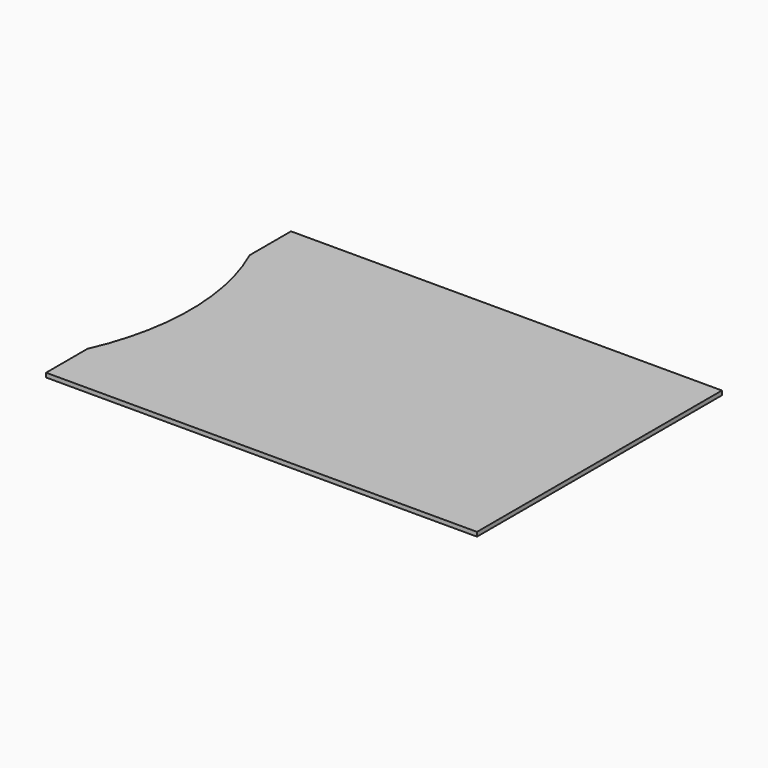
from build123d import *

# Parameters (mm, degrees)
F1_DEPTH = 0.375


with BuildPart() as f1:
    # F0 (on Top) → F1 (new body)
    with BuildSketch(Plane.XY):
        with BuildLine():
            Line((0, 4.560299), (0, 0))
            Line((0, 0), (38, 0))
            Line((38, 0), (38, 27))
            Line((38, 27), (0, 27))
            Line((0, 27), (0, 22.439701))
            ThreePointArc((0, 22.439701), (1.910908, 13.5), (0, 4.560299))
        make_face()
    extrude(amount=F1_DEPTH)


solid = f1.part
